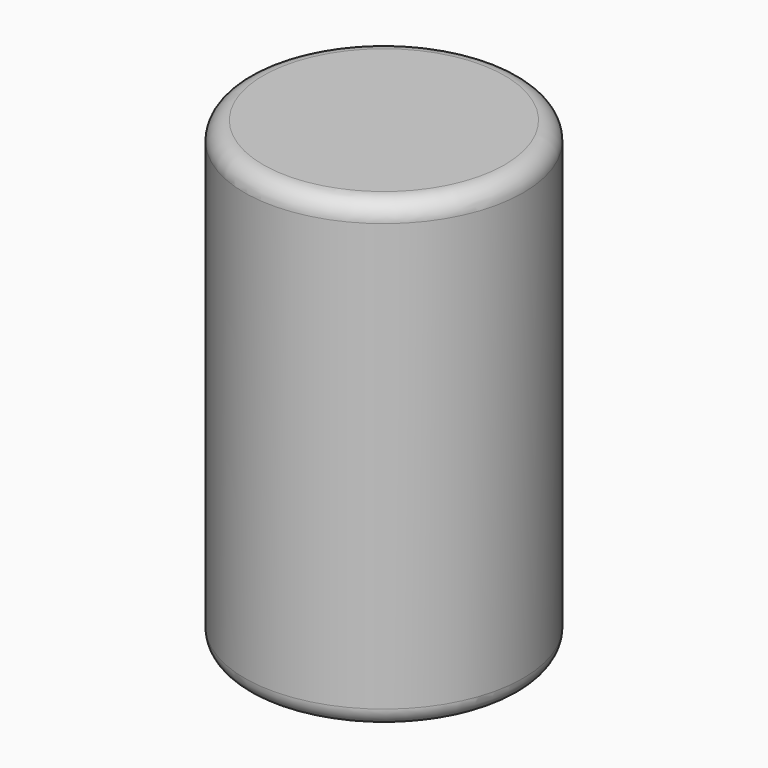
from build123d import *

# Parameters (mm, degrees)
SKETCH_R  = 1.5
PAD_DEPTH = 2.5
FILLET_R  = 0.2


with BuildPart() as part:
    # Sketch (on XY_Plane of Origin) → Pad (new body, symmetric)
    with BuildSketch(Plane.XY):
        Circle(SKETCH_R)
    extrude(amount=PAD_DEPTH, both=True)

    # Fillet
    fillet_edges = [part.edges().sort_by_distance(p)[0] for p in [
        (-1.5, 0, 2.5),
        (-1.5, 0, -2.5),
    ]]
    fillet(fillet_edges, radius=FILLET_R)


solid = part.part
